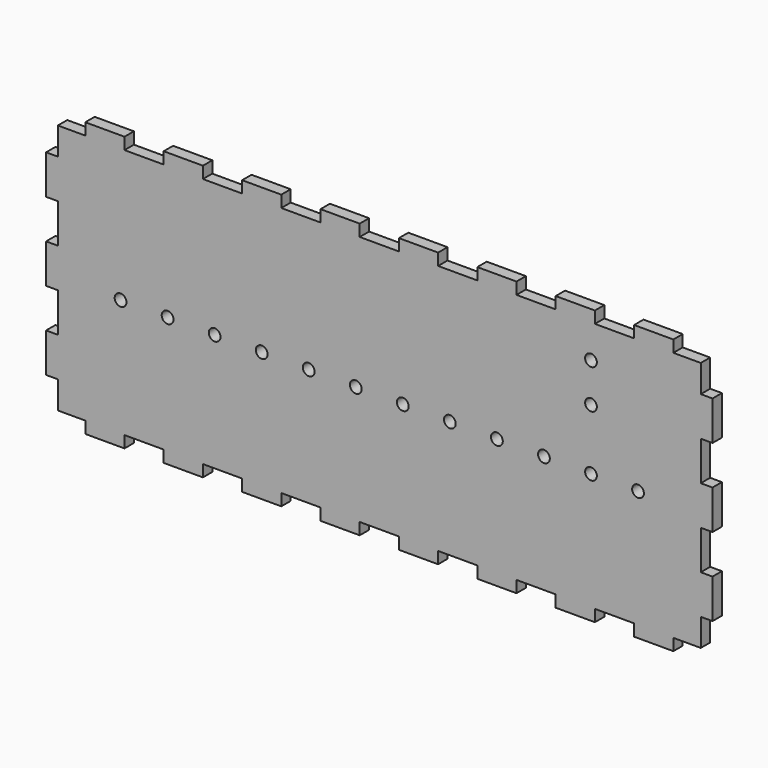
from build123d import *

# Parameters (mm, degrees)
F0_W     = 170
F0_H     = 70
F1_DEPTH = 3
F2_R     = 1.5
F3_DEPTH = 3.001
F4_R     = 1.5
F5_DEPTH = 3.001
F6_W     = 3
F6_H     = 3
F6_W_2   = 7
F6_W_3   = 10
F6_H_2   = 7
F7_DEPTH = 3.001


with BuildPart() as f1:
    # F0 (on Front) → F1 (new body)
    with BuildSketch(Plane.XZ):
        Rectangle(F0_W, F0_H)
    extrude(amount=F1_DEPTH)

    # F2 (on face) → F3 (cut, through all)
    with BuildSketch(Plane.XZ.offset(3)):
        with Locations((-66, -2)):
            Circle(F2_R)
        with Locations((-54, -2)):
            Circle(F2_R)
        with Locations((-42, -2)):
            Circle(F2_R)
        with Locations((-30, -2)):
            Circle(F2_R)
        with Locations((-18, -2)):
            Circle(F2_R)
        with Locations((-6, -2)):
            Circle(F2_R)
        with Locations((6, -2)):
            Circle(F2_R)
        with Locations((18, -2)):
            Circle(F2_R)
        with Locations((30, -2)):
            Circle(F2_R)
        with Locations((42, -2)):
            Circle(F2_R)
        with Locations((54, -2)):
            Circle(F2_R)
        with Locations((66, -2)):
            Circle(F2_R)
    extrude(amount=-F3_DEPTH, mode=Mode.SUBTRACT)

    # F4 (on face) → F5 (cut, through all)
    with BuildSketch(Plane.XZ.offset(3)):
        with Locations((54, 13.5)):
            Circle(F4_R)
        with Locations((54, 23.5)):
            Circle(F4_R)
    extrude(amount=-F5_DEPTH, mode=Mode.SUBTRACT)

    # F6 (on face) → F7 (cut, through all)
    with BuildSketch(Plane.XZ.offset(3)):
        with Locations((-83.5, -33.5)):
            Rectangle(F6_W, F6_H)
        with Locations((-78.5, -33.5)):
            Rectangle(F6_W_2, F6_H)
        Polygon((-85, -28), (-85, -32), (-82, -32), (-82, -25), (-85, -25), align=None)
        with Locations((-60, -33.5)):
            Rectangle(F6_W_3, F6_H)
        with Locations((-40, -33.5)):
            Rectangle(F6_W_3, F6_H)
        with Locations((-20, -33.5)):
            Rectangle(F6_W_3, F6_H)
        with Locations((0, -33.5)):
            Rectangle(F6_W_3, F6_H)
        with Locations((20, -33.5)):
            Rectangle(F6_W_3, F6_H)
        with Locations((40, -33.5)):
            Rectangle(F6_W_3, F6_H)
        with Locations((60, -33.5)):
            Rectangle(F6_W_3, F6_H)
        with Locations((83.5, -33.5)):
            Rectangle(F6_W, F6_H)
        Polygon((82, -32), (85, -32), (85, -28), (85, -25), (82, -25), align=None)
        with Locations((78.5, -33.5)):
            Rectangle(F6_W_2, F6_H)
        with Locations((-60, 33.5)):
            Rectangle(F6_W_3, F6_H)
        with Locations((-20, 33.5)):
            Rectangle(F6_W_3, F6_H)
        with Locations((-40, 33.5)):
            Rectangle(F6_W_3, F6_H)
        with Locations((0, 33.5)):
            Rectangle(F6_W_3, F6_H)
        with Locations((-83.5, 33.5)):
            Rectangle(F6_W, F6_H)
        with Locations((-83.5, 28.5)):
            Rectangle(F6_W, F6_H_2)
        with Locations((-78.5, 33.5)):
            Rectangle(F6_W_2, F6_H)
        with Locations((78.5, 33.5)):
            Rectangle(F6_W_2, F6_H)
        with Locations((83.5, 33.5)):
            Rectangle(F6_W, F6_H)
        with Locations((83.5, 28.5)):
            Rectangle(F6_W, F6_H_2)
        with Locations((20, 33.5)):
            Rectangle(F6_W_3, F6_H)
        with Locations((40, 33.5)):
            Rectangle(F6_W_3, F6_H)
        with Locations((60, 33.5)):
            Rectangle(F6_W_3, F6_H)
        Polygon((-82, 5), (-82, 15), (-85, 15), (-85, 12), (-85, 5), align=None)
        Polygon((-82, -15), (-82, -5), (-85, -5), (-85, -8), (-85, -15), align=None)
        Polygon((85, 12), (85, 15), (82, 15), (82, 5), (85, 5), align=None)
        Polygon((85, -8), (85, -5), (82, -5), (82, -15), (85, -15), align=None)
    extrude(amount=-F7_DEPTH, mode=Mode.SUBTRACT)


solid = f1.part
